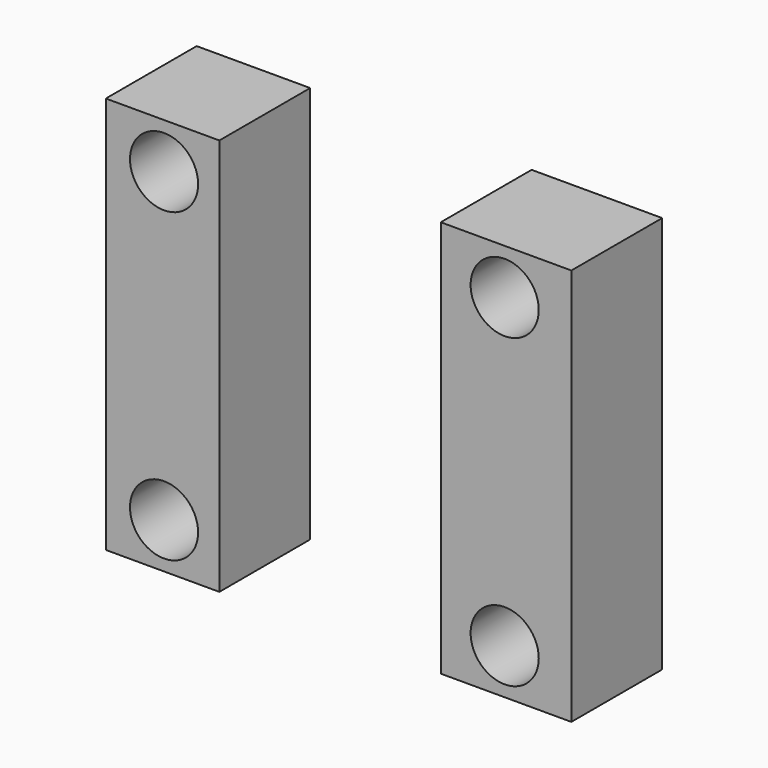
from build123d import *

# Parameters (mm, degrees)
F0_W     = 100
F0_H     = 100
F0_W_2   = 114.999997
F1_DEPTH = 350
F2_R     = 30
F3_DEPTH = 200
F4_R     = 30
F5_DEPTH = 200
F6_R     = 30
F7_DEPTH = 200
F8_R     = 30
F9_DEPTH = 200


with BuildPart() as f1:
    # F0 (on Top) → F1 (new body)
    with BuildSketch(Plane.XY):
        with Locations((-151.289394, -50)):
            Rectangle(F0_W, F0_H)
        with Locations((151.210569, -50)):
            Rectangle(F0_W_2, F0_H)
    extrude(amount=F1_DEPTH)

    # F2 (on face) → F3 (cut)
    with BuildSketch(Plane.XZ.offset(100)):
        with Locations((-150, 310)):
            Circle(F2_R)
    extrude(amount=-F3_DEPTH, mode=Mode.SUBTRACT)

    # F4 (on face) → F5 (cut)
    with BuildSketch(Plane.XZ.offset(100)):
        with Locations((150, 310)):
            Circle(F4_R)
    extrude(amount=-F5_DEPTH, mode=Mode.SUBTRACT)

    # F6 (on face) → F7 (cut)
    with BuildSketch(Plane.XZ.offset(100)):
        with Locations((-150, 40)):
            Circle(F6_R)
    extrude(amount=-F7_DEPTH, mode=Mode.SUBTRACT)

    # F8 (on face) → F9 (cut)
    with BuildSketch(Plane.XZ.offset(100)):
        with Locations((150, 40)):
            Circle(F8_R)
    extrude(amount=-F9_DEPTH, mode=Mode.SUBTRACT)


solid = f1.part
